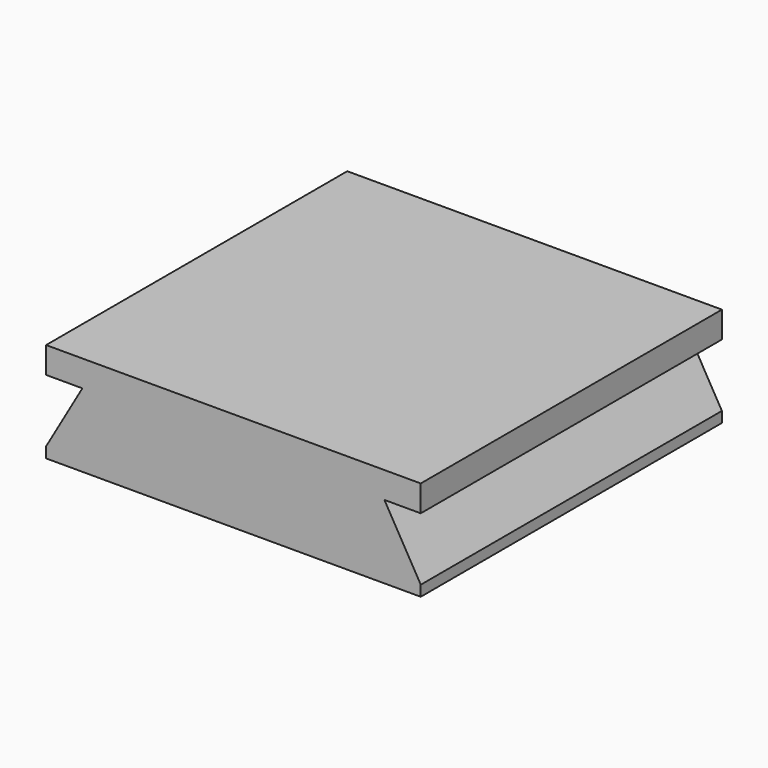
from build123d import *

# Parameters (mm, degrees)
F1_DEPTH = 20.75
F2_T     = -2


with BuildPart() as f1:
    # F0 (on Front) → F1 (new body, symmetric)
    with BuildSketch(Plane.XZ):
        Polygon((20.65, 0), (-20.65, 0), (-20.65, -2.9), (-16.65, -2.9), (-20.65, -9.8282032303), (-20.65, -11), (20.65, -11), (20.65, -9.8282032303), (16.65, -2.9), (20.65, -2.9), align=None)
    extrude(amount=F1_DEPTH, both=True)

    # F2
    f2_openings = [f1.faces().sort_by_distance(p)[0] for p in [
        (0, 0, -11),
    ]]
    offset(amount=F2_T, openings=f2_openings, kind=Kind.INTERSECTION)


solid = f1.part
